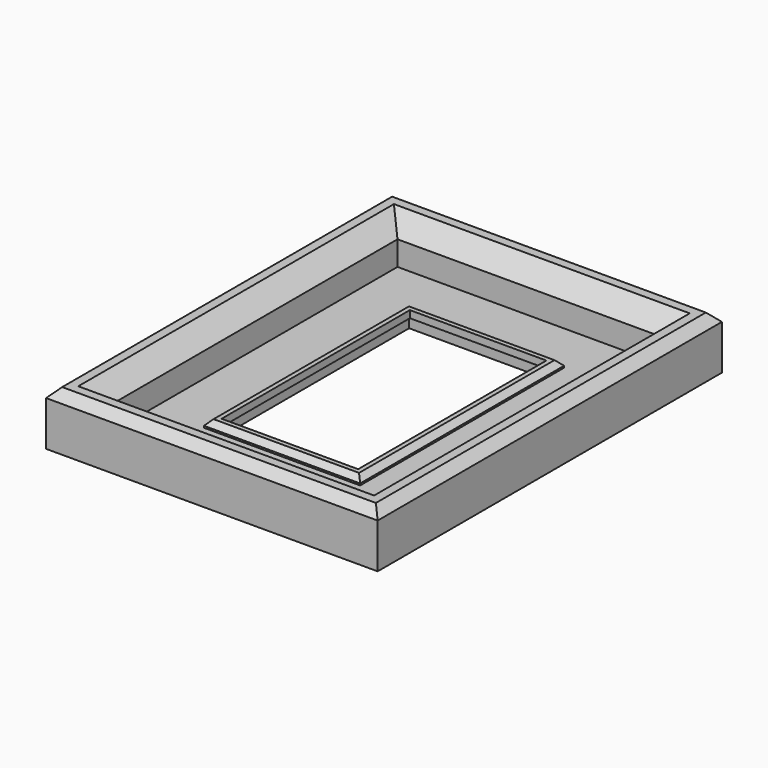
from build123d import *

# Parameters (mm, degrees)
SKETCH_W             = 185.32
SKETCH_H             = 240.5
PAD_DEPTH            = 30
SKETCH003_W          = 145.32
SKETCH003_H          = 200.5
POCKET_DEPTH         = 23.6
SKETCH004_W          = 80.32
SKETCH004_H          = 135.5
POCKET001_DEPTH      = 6.4
POCKET002_DEPTH      = 3
SKETCH006_W          = 14
SKETCH006_H          = 3
POCKET003_DEPTH      = 30
POCKET004_DEPTH      = 1.5
SKETCH008_W          = 12
SKETCH008_H          = 2.4244
POCKET005_DEPTH      = 30
SKETCH009_W          = 87.32
SKETCH009_H          = 142.5
PAD001_DEPTH         = 4
SKETCH010_W          = 76.32
SKETCH010_H          = 131.5
POCKET006_DEPTH      = 0.001
POCKET006_DEPTH_BACK = -30.001
CHAMFER_SIZE         = 10
CHAMFER001_SIZE      = 5
CHAMFER002_SIZE      = 3


with BuildPart() as part:
    # Sketch → Pad (new body)
    with BuildSketch(Plane.XY):
        Rectangle(SKETCH_W, SKETCH_H)
    extrude(amount=PAD_DEPTH)

    # Sketch003 → Pocket (cut)
    with BuildSketch(Plane.XY.offset(30)):
        Rectangle(SKETCH003_W, SKETCH003_H)
    extrude(amount=-POCKET_DEPTH, mode=Mode.SUBTRACT)

    # Sketch004 → Pocket001 (cut)
    with BuildSketch(Plane.XY.offset(6.4)):
        Rectangle(SKETCH004_W, SKETCH004_H)
    extrude(amount=-POCKET001_DEPTH, mode=Mode.SUBTRACT)

    # Sketch005 → Pocket002 (cut)
    with BuildSketch(Plane.XY):
        with BuildLine():
            ThreePointArc((-85.97, 0), (-82.985, -2.985), (-80, 0))
            Line((-80, 0), (-80, 18.025988))
            ThreePointArc((-80, 18.025988), (-82.985, 27.495), (-85.97, 18.025988))
            Line((-85.97, 18.025988), (-85.97, 0))
        make_face()
    extrude(amount=POCKET002_DEPTH, mode=Mode.SUBTRACT)

    # Sketch006 → Pocket003 (cut, symmetric)
    with BuildSketch(Plane.XZ):
        with Locations((-83, 4.48)):
            Rectangle(SKETCH006_W, SKETCH006_H)
    extrude(amount=POCKET003_DEPTH, both=True, mode=Mode.SUBTRACT)

    # Sketch007 → Pocket004 (cut, symmetric)
    with BuildSketch(Plane.XY):
        with BuildLine():
            ThreePointArc((0, 110.985), (-2.985, 108), (0, 105.015))
            Line((0, 105.015), (18.705988, 105.015))
            ThreePointArc((18.705988, 105.015), (28.175, 108), (18.705988, 110.985))
            Line((18.705988, 110.985), (0, 110.985))
        make_face()
    extrude(amount=POCKET004_DEPTH, both=True, mode=Mode.SUBTRACT)

    # Sketch008 → Pocket005 (cut, symmetric)
    with BuildSketch(Plane.YZ):
        with Locations((108, 2.7105)):
            Rectangle(SKETCH008_W, SKETCH008_H)
    extrude(amount=POCKET005_DEPTH, both=True, mode=Mode.SUBTRACT)

    # Sketch009 → Pad001 (join)
    with BuildSketch(Plane.XY.offset(6.4)):
        Rectangle(SKETCH009_W, SKETCH009_H)
    extrude(amount=PAD001_DEPTH)

    # Sketch010 → Pocket006 (cut, two sides)
    with BuildSketch(Plane.XY) as pocket006_sk:
        Rectangle(SKETCH010_W, SKETCH010_H)
    extrude(amount=-POCKET006_DEPTH, mode=Mode.SUBTRACT)
    extrude(pocket006_sk.sketch, amount=-POCKET006_DEPTH_BACK, mode=Mode.SUBTRACT)

    # Chamfer
    chamfer_edges = [part.edges().sort_by_distance(p)[0] for p in [
        (-72.66, 0, 30),
        (0, 100.25, 30),
        (72.66, 0, 30),
        (0, -100.25, 30),
    ]]
    chamfer(chamfer_edges, length=CHAMFER_SIZE)

    # Chamfer001
    chamfer001_edges = [part.edges().sort_by_distance(p)[0] for p in [
        (0, 120.25, 30),
        (-92.66, 0, 30),
        (0, -120.25, 30),
        (92.66, 0, 30),
    ]]
    chamfer(chamfer001_edges, length=CHAMFER001_SIZE)

    # Chamfer002
    chamfer002_edges = [part.edges().sort_by_distance(p)[0] for p in [
        (-43.66, 0, 10.4),
        (0, -71.25, 10.4),
        (43.66, 0, 10.4),
        (0, 71.25, 10.4),
    ]]
    chamfer(chamfer002_edges, length=CHAMFER002_SIZE)


solid = part.part
